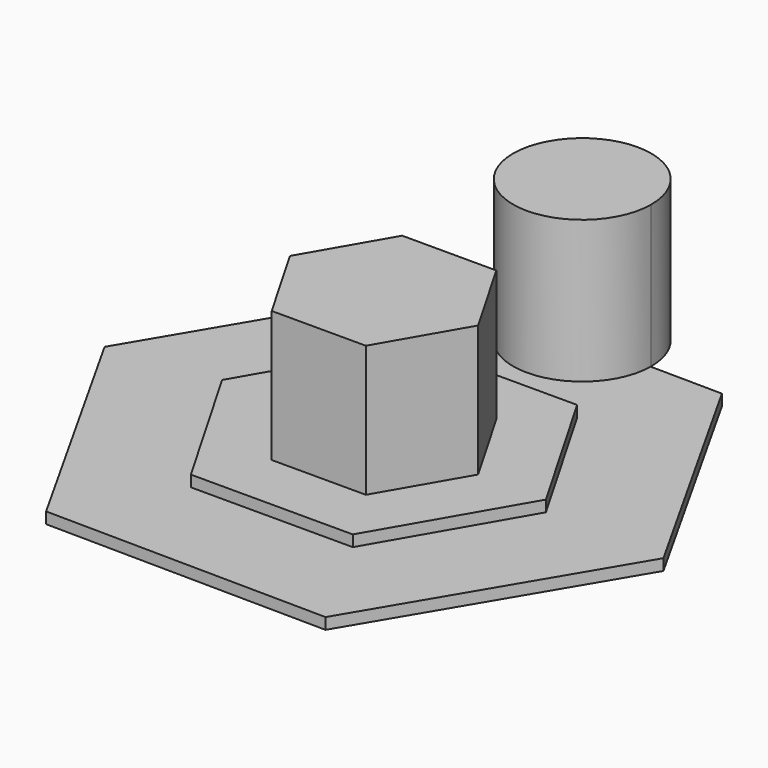
from build123d import *

# Parameters (mm, degrees)
F1_DEPTH = 2.0066
F3_DEPTH = 2
F5_DEPTH = 25.4


with BuildPart() as f1:
    # F0 (on Top) → F1 (new body)
    with BuildSketch(Plane.XY):
        Polygon((-24.6424870433, 43.8434540713), (-50.2907885371, 0.5807072437), (-25.6483014937, -43.2627468276), (24.6424870433, -43.8434540713), (50.2907885371, -0.5807072437), (25.6483014937, 43.2627468276), align=None)
    extrude(amount=F1_DEPTH)

    # F2 (on face) → F3 (join)
    with BuildSketch(Plane.XY.offset(2.0066)):
        Polygon((14.4355614638, 25.0031258911), (-14.4355614638, 25.0031258911), (-28.8711229276, 0), (-14.4355614638, -25.0031258911), (14.4355614638, -25.0031258911), (28.8711229276, 0), align=None)
    extrude(amount=F3_DEPTH)

    # F4 (on face) → F5 (join)
    with BuildSketch(Plane.XY.offset(2.0066)):
        Polygon((8.3927677802, 14.5367002115), (-8.3927677802, 14.5367002115), (-16.7855355604, 0), (-8.3927677802, -14.5367002115), (8.3927677802, -14.5367002115), (16.7855355604, 0), align=None)
        with BuildLine():
            Line((12.8234216162, 43.4108355902), (-11.8176071658, 43.6953653087))
            ThreePointArc((-11.8176071658, 43.6953653087), (0.3606423659, 31.2325860584), (12.8234216162, 43.4108355902))
        make_face()
        with BuildLine():
            ThreePointArc((12.8234216162, 43.4108355902), (12.8240376181, 43.4819668344), (12.8242429543, 43.5531004494))
            ThreePointArc((12.8242429543, 43.5531004494), (0.5740408403, 55.8742308423), (-11.8176071658, 43.6953653087))
            Line((-11.8176071658, 43.6953653087), (12.8234216162, 43.4108355902))
        make_face()
    extrude(amount=F5_DEPTH)


solid = f1.part
